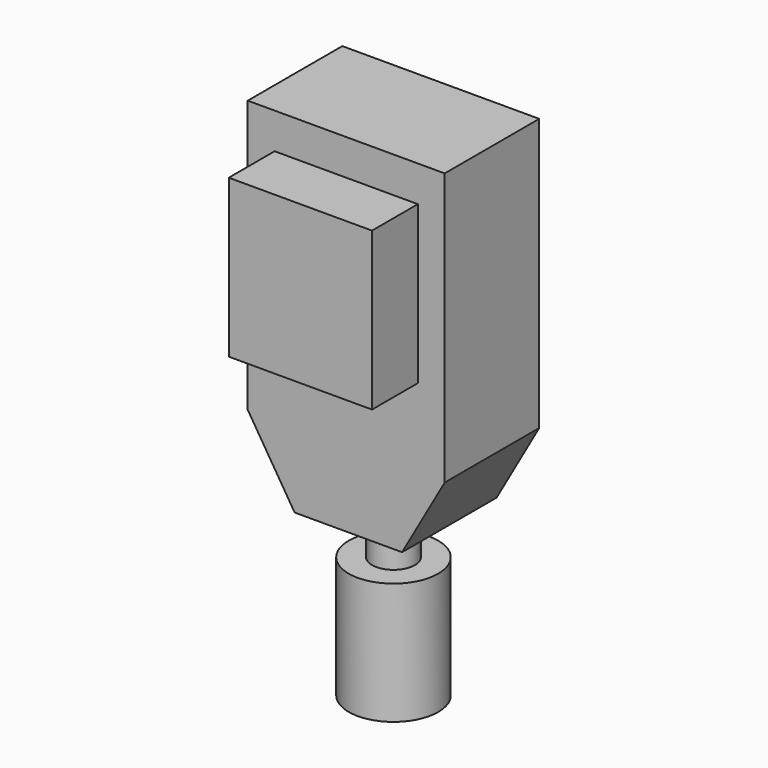
from build123d import *

# Parameters (mm, degrees)
F1_DEPTH = 165
F7_R     = 30
F2_DEPTH = 65
F3_R     = 62.5
F3_R_2   = 30
F4_DEPTH = 170
F5_W     = 200
F5_H     = 220
F6_DEPTH = 80


with BuildPart() as f1:
    # F0 (on Front) → F1 (new body)
    with BuildSketch(Plane.XZ):
        Polygon((137.5, -190), (137.5, 190), (-137.5, 190), (-137.5, -190), (-72.013795, -295), (77.986205, -295), align=None)
    extrude(amount=F1_DEPTH)

    # F7 (on face) → F2 (join)
    with BuildSketch(Plane(origin=(0, 0, -295), x_dir=(1, 0, 0), z_dir=(0, 0, -1))):
        with Locations((0, 82.5)):
            Circle(F7_R)
    extrude(amount=F2_DEPTH)

    # F3 (on face) → F4 (join)
    with BuildSketch(Plane(origin=(0, 0, -360), x_dir=(1, 0, 0), z_dir=(0, 0, -1))):
        with Locations((0, 82.5)):
            Circle(F3_R)
        with Locations((0, 82.5)):
            Circle(F3_R_2, mode=Mode.SUBTRACT)
    extrude(amount=F4_DEPTH)

    # F5 (on face) → F6 (join)
    with BuildSketch(Plane.XZ.offset(165)):
        with Locations((0, 30)):
            Rectangle(F5_W, F5_H)
    extrude(amount=F6_DEPTH)


solid = f1.part
